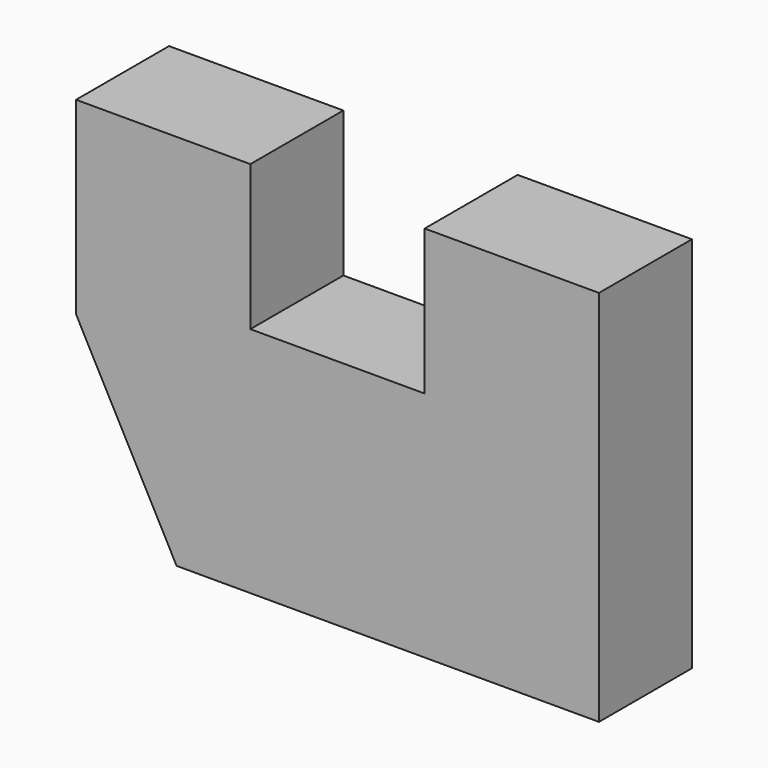
from build123d import *

# Parameters (mm, degrees)
F1_DEPTH = 200
F4_DEPTH = 25
F5_DEPTH = 400


with BuildPart() as f1:
    # F0 (on Front) → F1 (new body)
    with BuildSketch(Plane.XZ):
        Polygon((-1.4871466187, 391.6978864931), (-301.4871466187, 391.6978864931), (-301.4871466187, -258.3021135069), (-190.924435854, -258.3021135069), (-80.4046094418, -258.3021135069), (598.5128533813, -258.3021135069), (598.5128533813, -237.8309071064), (598.5128533813, 391.6978864931), (298.5128533813, 391.6978864931), (298.5128533813, 141.6978864931), (-1.4871466187, 141.6978864931), align=None)
    extrude(amount=F1_DEPTH)

    # F2 (on face) → F4 (cut)
    with BuildSketch(Plane.XZ.offset(200)):
        Polygon((-301.4871466187, 66.6978864931), (-301.4871466187, -258.3021135069), (-128.4365952015, -258.3021135069), align=None)
    extrude(amount=-F4_DEPTH, mode=Mode.SUBTRACT)

    # F5 (cut): a face of the model
    f5_faces = [f1.faces().sort_by_distance(p)[0] for p in [
        (-243.8036294796, -175, -149.9687801736),
    ]]
    extrude(f5_faces, amount=-F5_DEPTH, mode=Mode.SUBTRACT)


solid = f1.part
